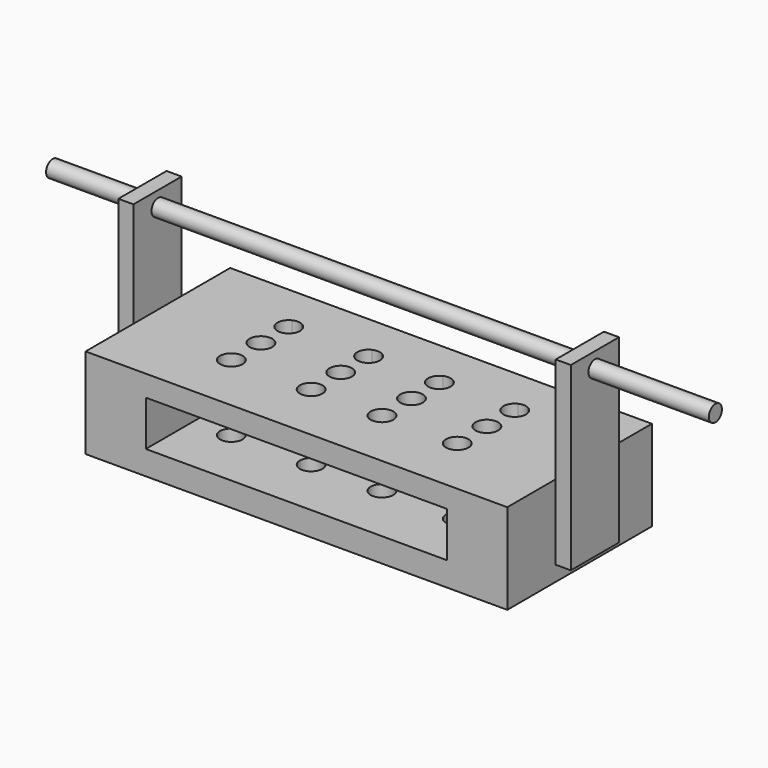
from build123d import *

# Parameters (mm, degrees)
F0_W      = 177.8
F0_H      = 38.1
F1_DEPTH  = 76.2
F3_DEPTH  = 6.35
F5_DEPTH  = 6.35
F7_DEPTH  = 76.2
F8_R      = 3.4925
F9_DEPTH  = 228.6
F10_R     = 4.7625
F11_DEPTH = 38.1
F12_R     = 3.443795
F13_DEPTH = 279.4


with BuildPart() as f1:
    # F0 (on Front) → F1 (new body)
    with BuildSketch(Plane.XZ):
        with Locations((88.9, 19.05)):
            Rectangle(F0_W, F0_H)
    extrude(amount=-F1_DEPTH)

    # F2 (on face) → F3 (join)
    with BuildSketch(Plane.YZ.offset(177.8)):
        Polygon((25.543192, 82.55), (25.543192, 6.35), (38.1, 6.35), (50.943192, 6.35), (50.943192, 82.55), align=None)
    extrude(amount=F3_DEPTH)

    # F4 (on face) → F5 (join)
    with BuildSketch(Plane(origin=(0, 0, 0), x_dir=(0, -1, 0), z_dir=(-1, 0, 0))):
        Polygon((-50.629251, 82.433985), (-50.629251, 6.233985), (-38.072443, 6.233985), (-25.229251, 6.233985), (-25.229251, 82.433985), align=None)
    extrude(amount=F5_DEPTH)

    # F6 (on face) → F7 (cut)
    with BuildSketch(Plane.XZ):
        Polygon((25.4, 29.206271), (25.4, 19.681271), (25.4, 10.156271), (152.4, 10.156271), (152.4, 19.681271), (152.4, 29.206271), align=None)
    extrude(amount=-F7_DEPTH, mode=Mode.SUBTRACT)

    # F8 (on face) → F9 (join)
    with BuildSketch(Plane.YZ.offset(184.15)):
        with Locations((38.243192, 76.067708)):
            Circle(F8_R)
    extrude(amount=-F9_DEPTH)

    # F10 (on face) → F11 (cut)
    with BuildSketch(Plane.XY.offset(38.1)):
        with BuildLine():
            ThreePointArc((43.284044, 59.817001), (41.275, 60.261499), (39.265956, 59.817001))
            Line((39.265956, 59.817001), (43.284044, 59.817001))
        make_face()
        with BuildLine():
            ThreePointArc((138.534044, 59.817001), (136.525, 60.261499), (134.515956, 59.817001))
            Line((134.515956, 59.817001), (138.534044, 59.817001))
        make_face()
        with BuildLine():
            Line((138.534044, 59.817001), (134.515956, 59.817001))
            ThreePointArc((134.515956, 59.817001), (133.964401, 51.483436), (141.2875, 55.498999))
            ThreePointArc((141.2875, 55.498999), (140.540562, 58.059597), (138.534044, 59.817001))
        make_face()
        with BuildLine():
            ThreePointArc((106.784044, 59.817001), (104.775, 60.261499), (102.765956, 59.817001))
            Line((102.765956, 59.817001), (106.784044, 59.817001))
        make_face()
        with BuildLine():
            Line((106.784044, 59.817001), (102.765956, 59.817001))
            ThreePointArc((102.765956, 59.817001), (102.214401, 51.483436), (109.5375, 55.498999))
            ThreePointArc((109.5375, 55.498999), (108.790562, 58.059597), (106.784044, 59.817001))
        make_face()
        with BuildLine():
            ThreePointArc((76.939042, 59.817001), (74.929997, 60.261499), (72.920953, 59.817001))
            Line((72.920953, 59.817001), (76.939042, 59.817001))
        make_face()
        with BuildLine():
            Line((76.939042, 59.817001), (72.920953, 59.817001))
            ThreePointArc((72.920953, 59.817001), (72.369399, 51.483436), (79.692497, 55.498999))
            ThreePointArc((79.692497, 55.498999), (78.94556, 58.059597), (76.939042, 59.817001))
        make_face()
        with BuildLine():
            Line((43.284044, 59.817001), (39.265956, 59.817001))
            ThreePointArc((39.265956, 59.817001), (38.714401, 51.483436), (46.0375, 55.498999))
            ThreePointArc((46.0375, 55.498999), (45.290562, 58.059597), (43.284044, 59.817001))
        make_face()
        with Locations((41.275, 40.812645)):
            Circle(F10_R)
        with Locations((74.929997, 40.812645)):
            Circle(F10_R)
        with Locations((104.775, 40.812645)):
            Circle(F10_R)
        with Locations((136.525, 40.812645)):
            Circle(F10_R)
        with Locations((41.275, 25.229251)):
            Circle(F10_R)
        with Locations((74.929997, 25.229251)):
            Circle(F10_R)
        with Locations((104.775, 25.229251)):
            Circle(F10_R)
        with Locations((136.525, 25.229251)):
            Circle(F10_R)
    extrude(amount=-F11_DEPTH, mode=Mode.SUBTRACT)

    # F12 (on face) → F13 (join)
    with BuildSketch(Plane(origin=(-44.45, 0, 0), x_dir=(0, -1, 0), z_dir=(-1, 0, 0))):
        with Locations((-38.243192, 76.067708)):
            Circle(F12_R)
    extrude(amount=-F13_DEPTH)


solid = f1.part
